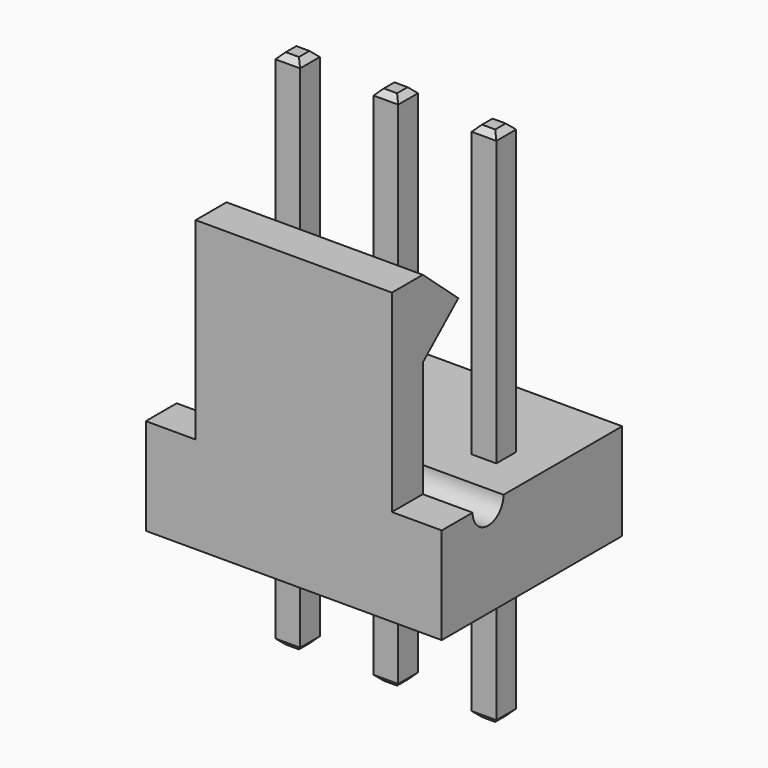
from build123d import *

# Parameters (mm, degrees)
SKETCH_W          = 7.66
SKETCH_H          = 5.84
PAD_DEPTH         = 2.5
SKETCH001_W       = 5.08
SKETCH001_H       = 1
PAD001_DEPTH      = 5
PAD002_DEPTH      = 5.08
POCKET_DEPTH      = 7.661
SKETCH011_W       = 0.64
SKETCH011_H       = 0.64
PAD003_DEPTH      = 10
PAD003_DEPTH_BACK = 3.5
CHAMFER002_SIZE   = 0.15
CHAMFER003_SIZE   = 0.15
SKETCH012_W       = 0.64
SKETCH012_H       = 0.64
PAD004_DEPTH      = 10
PAD004_DEPTH_BACK = 3.5
CHAMFER001_SIZE   = 0.15
CHAMFER004_SIZE   = 0.15
SKETCH013_W       = 0.64
SKETCH013_H       = 0.64
PAD005_DEPTH      = 10
PAD005_DEPTH_BACK = 3.5
CHAMFER_SIZE      = 0.15
CHAMFER005_SIZE   = 0.15


with BuildPart() as pocket:
    # Sketch → Pad (new body)
    with BuildSketch(Plane(origin=(0, 0, 0), x_dir=(-1, 0, 0), z_dir=(0, 0, 1))):
        with Locations((-2.54, 0.38)):
            Rectangle(SKETCH_W, SKETCH_H)
    extrude(amount=PAD_DEPTH)

    # Sketch001 → Pad001 (new body)
    with BuildSketch(Plane(origin=(0, 0, 2.5), x_dir=(-1, 0, 0), z_dir=(0, 0, 1))):
        with Locations((-2.54, 2.8)):
            Rectangle(SKETCH001_W, SKETCH001_H)
    extrude(amount=PAD001_DEPTH)

    # Sketch002 → Pad002 (new body)
    with BuildSketch(Plane(origin=(0, 0, 0), x_dir=(0, -1, 0), z_dir=(-1, 0, 0))):
        Polygon((2.3, 7.5), (2.3, 5.5), (1.15, 6.5), align=None)
    extrude(amount=-PAD002_DEPTH)

    # Sketch015 → Pocket (cut, through all)
    with BuildSketch(Plane(origin=(-1.29, 0, 0), x_dir=(0, -1, 0), z_dir=(-1, 0, 0))):
        with BuildLine():
            ThreePointArc((1.3, 2.5), (1.8, 2), (2.3, 2.5))
            Line((1.3, 2.5), (2.3, 2.5))
        make_face()
    extrude(amount=-POCKET_DEPTH, mode=Mode.SUBTRACT)


with BuildPart() as chamfer003:
    # Sketch011 → Pad003 (new body, two sides)
    with BuildSketch(Plane(origin=(0, 0, 0), x_dir=(-1, 0, 0), z_dir=(0, 0, 1))) as pad003_sk:
        Rectangle(SKETCH011_W, SKETCH011_H)
    extrude(amount=PAD003_DEPTH)
    extrude(pad003_sk.sketch, amount=-PAD003_DEPTH_BACK)

    # Chamfer002
    chamfer002_edges = [chamfer003.edges().sort_by_distance(p)[0] for p in [
        (0, -0.32, 10),
        (-0.32, 0, 10),
        (0, 0.32, 10),
        (0.32, 0, 10),
    ]]
    chamfer(chamfer002_edges, length=CHAMFER002_SIZE)

    # Chamfer003
    chamfer003_edges = [chamfer003.edges().sort_by_distance(p)[0] for p in [
        (0, -0.32, -3.5),
        (-0.32, 0, -3.5),
        (0, 0.32, -3.5),
        (0.32, 0, -3.5),
    ]]
    chamfer(chamfer003_edges, length=CHAMFER003_SIZE)


with BuildPart() as chamfer004:
    # Sketch012 → Pad004 (new body, two sides)
    with BuildSketch(Plane(origin=(0, 0, 0), x_dir=(-1, 0, 0), z_dir=(0, 0, 1))) as pad004_sk:
        with Locations((-2.54, 0)):
            Rectangle(SKETCH012_W, SKETCH012_H)
    extrude(amount=PAD004_DEPTH)
    extrude(pad004_sk.sketch, amount=-PAD004_DEPTH_BACK)

    # Chamfer001
    chamfer001_edges = [chamfer004.edges().sort_by_distance(p)[0] for p in [
        (2.54, -0.32, 10),
        (2.22, 0, 10),
        (2.54, 0.32, 10),
        (2.86, 0, 10),
    ]]
    chamfer(chamfer001_edges, length=CHAMFER001_SIZE)

    # Chamfer004
    chamfer004_edges = [chamfer004.edges().sort_by_distance(p)[0] for p in [
        (2.54, -0.32, -3.5),
        (2.22, 0, -3.5),
        (2.54, 0.32, -3.5),
        (2.86, 0, -3.5),
    ]]
    chamfer(chamfer004_edges, length=CHAMFER004_SIZE)


with BuildPart() as chamfer005:
    # Sketch013 → Pad005 (new body, two sides)
    with BuildSketch(Plane(origin=(0, 0, 0), x_dir=(-1, 0, 0), z_dir=(0, 0, 1))) as pad005_sk:
        with Locations((-5.08, 0)):
            Rectangle(SKETCH013_W, SKETCH013_H)
    extrude(amount=PAD005_DEPTH)
    extrude(pad005_sk.sketch, amount=-PAD005_DEPTH_BACK)

    # Chamfer
    chamfer_edges = [chamfer005.edges().sort_by_distance(p)[0] for p in [
        (5.08, -0.32, 10),
        (4.76, 0, 10),
        (5.08, 0.32, 10),
        (5.4, 0, 10),
    ]]
    chamfer(chamfer_edges, length=CHAMFER_SIZE)

    # Chamfer005
    chamfer005_edges = [chamfer005.edges().sort_by_distance(p)[0] for p in [
        (5.08, -0.32, -3.5),
        (4.76, 0, -3.5),
        (5.08, 0.32, -3.5),
        (5.4, 0, -3.5),
    ]]
    chamfer(chamfer005_edges, length=CHAMFER005_SIZE)


solid = Compound([pocket.part, chamfer003.part, chamfer004.part, chamfer005.part])
